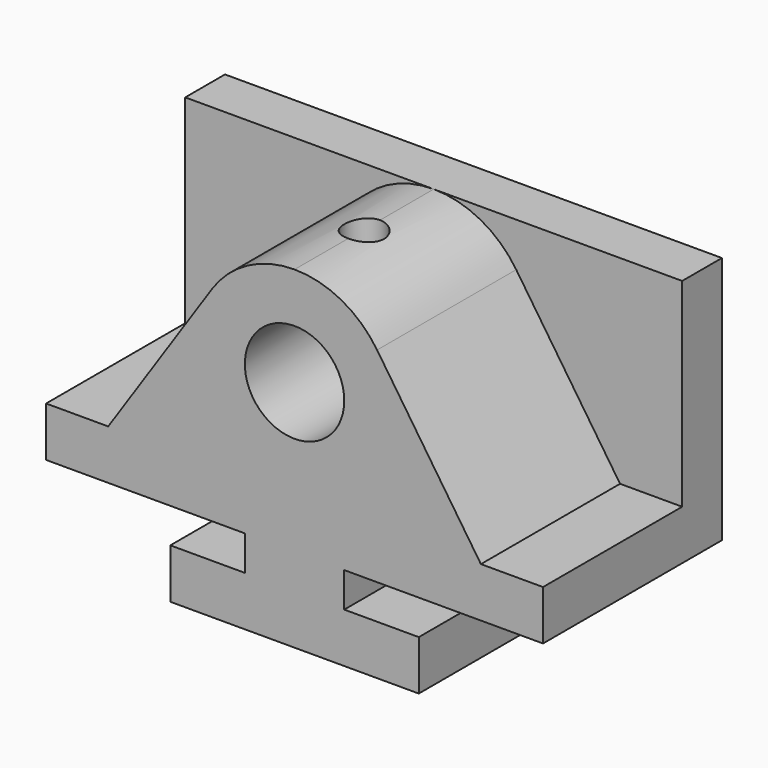
from build123d import *

# Parameters (mm, degrees)
F0_W     = 127
F0_H     = 63.5
F1_DEPTH = 12.7
F2_R     = 12.7
F3_DEPTH = 44.45
F5_DEPTH = 57.15
F7_R     = 5.08
F8_DEPTH = 25.4


with BuildPart() as f1:
    # F0 (on Front) → F1 (new body)
    with BuildSketch(Plane.XZ):
        Rectangle(F0_W, F0_H)
    extrude(amount=F1_DEPTH)

    # F2 (on face) → F3 (join)
    with BuildSketch(Plane.XZ.offset(12.7)):
        with BuildLine():
            Line((-63.5, -19.05), (-63.5, -31.75))
            Line((-63.5, -31.75), (63.5, -31.75))
            Line((63.5, -31.75), (63.5, -19.05))
            Line((63.5, -19.05), (47.625, -19.05))
            Line((47.625, -19.05), (21.0934256055, 20.5001730104))
            ThreePointArc((21.0934256055, 20.5001730104), (11.9529411765, 28.7617647059), (0, 31.75))
            ThreePointArc((0, 31.75), (-11.9529411765, 28.7617647059), (-21.0934256055, 20.5001730104))
            Line((-21.0934256055, 20.5001730104), (-47.625, -19.05))
            Line((-47.625, -19.05), (-63.5, -19.05))
        make_face()
        with Locations((0, 6.35)):
            Circle(F2_R, mode=Mode.SUBTRACT)
    extrude(amount=F3_DEPTH)

    # F4 (on Front) → F5 (join)
    with BuildSketch(Plane.XZ):
        Polygon((12.7, -31.75), (-12.7, -31.75), (-12.7, -40.64), (-31.75, -40.64), (-31.75, -53.34), (31.75, -53.34), (31.75, -40.64), (12.7, -40.64), align=None)
    extrude(amount=F5_DEPTH)

    # F7 (on offset) → F8 (cut)
    with BuildSketch(Plane.XY.offset(6.35)):
        with Locations((0, -34.925)):
            Circle(F7_R)
    extrude(amount=F8_DEPTH, mode=Mode.SUBTRACT)


solid = f1.part
